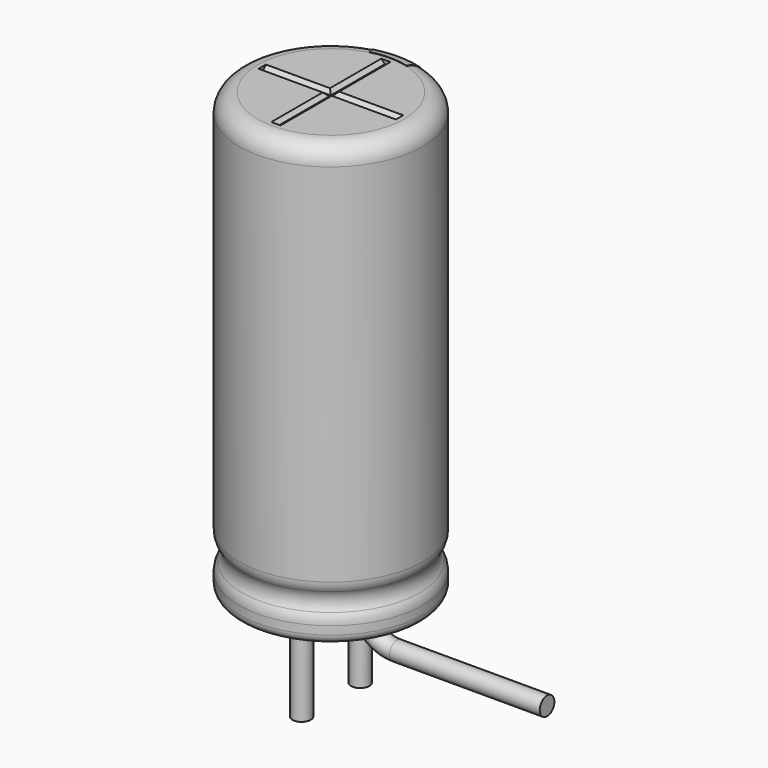
from build123d import *

# Parameters (mm, degrees)
SKETCH003_R         = 0.25
REVOLUTION001_ANGLE = -30
SKETCH015_W         = 0.5
SKETCH015_H         = 1
POCKET002_DEPTH     = 2.511
LINEARPATTERN_COUNT = 3
LINEARPATTERN_PITCH = 4.5
SKETCH010_R         = 0.25
PAD002_DEPTH        = 2.6
SKETCH013_R         = 2
PAD_DEPTH           = 0.5
POCKET001_DEPTH     = 1.875
POLARPATTERN_COUNT  = 3
POLARPATTERN_ANGLE  = 180
SKETCH012_R         = 2
POCKET_DEPTH        = 0.5


with BuildPart() as obj1:
    # AdditivePipe: sweep along a path in Sketch004
    with BuildLine(Plane.XZ) as additivepipe_path:
        Line((0, 0), (0, -0.5))
        ThreePointArc((0, -0.5), (0.292893, -1.207107), (1, -1.5))
        Line((1, -1.5), (5.1, -1.5))
    # Sketch003 (on ShapeBinder) → AdditivePipe (sweep)
    with BuildSketch(Plane(origin=(0, 0, 0), x_dir=(1, 0, 0), z_dir=(0, 0, -1))):
        with Locations((0, 1)):
            Circle(SKETCH003_R)
    sweep(path=additivepipe_path.line)


with BuildPart() as obj1_1:
    # Body003 placement: moved
    add(obj1.part.moved(Location((0, 2, 0))))


with BuildPart() as polaritymarking:
    # Sketch005 → Revolution001 (revolve)
    with BuildSketch(Plane(origin=(0, 0, 0), x_dir=(-0.258819, 0.965926, 0), z_dir=(0.965926, 0.258819, 0))):
        with BuildLine():
            Line((2.01, 0.25), (2.01, 12.01))
            ThreePointArc((2.01, 12.01), (2.363553, 11.863553), (2.51, 11.51))
            Line((2.51, 11.51), (2.51, 1.523941))
            ThreePointArc((2.51, 1.523941), (2.489134, 1.381006), (2.428278, 1.25))
            ThreePointArc((2.428278, 1.25), (2.353698, 1), (2.428278, 0.75))
            ThreePointArc((2.428278, 0.75), (2.489134, 0.618994), (2.51, 0.476059))
            Line((2.51, 0.476059), (2.51, 0.25))
            ThreePointArc((2.51, 0.25), (2.26, 0), (2.01, 0.25))
        make_face()
    revolve(axis=Axis((0, 0, 0), (0, 0, 1)), revolution_arc=REVOLUTION001_ANGLE)

    # Sketch015 → Pocket002 (cut, through all)
    with BuildSketch(Plane.XZ):
        with Locations((0, 2)):
            Rectangle(SKETCH015_W, SKETCH015_H)
    pocket002 = extrude(amount=-POCKET002_DEPTH, mode=Mode.SUBTRACT)

    # LinearPattern: Pocket002 ×3
    with Locations(*[(0, 0, i * LINEARPATTERN_PITCH) for i in range(1, LINEARPATTERN_COUNT)]):
        add(pocket002, mode=Mode.SUBTRACT)


with BuildPart() as obj2:
    # Sketch010 → Pad002 (new body)
    with BuildSketch(Plane(origin=(0, 1, 0), x_dir=(1, 0, 0), z_dir=(0, 0, 1))):
        Circle(SKETCH010_R)
    extrude(amount=-PAD002_DEPTH)


with BuildPart() as obj3:
    # Body007 base: copy of obj2
    add(obj2.part)


with BuildPart() as obj3_1:
    # Body007 placement: moved
    add(obj3.part.moved(Location((0, -2, 0))))


with BuildPart() as housingtop:
    # Sketch013 (on ShapeBinder) → Pad (new body)
    with BuildSketch(Plane.XY.offset(11.5)):
        Circle(SKETCH013_R)
    extrude(amount=PAD_DEPTH)

    # Sketch014 → Pocket001 (cut, symmetric)
    with BuildSketch(Plane.XZ):
        Polygon((-0.125, 12), (0.125, 12), (0.025, 11.9), (-0.025, 11.9), align=None)
    pocket001 = extrude(amount=POCKET001_DEPTH, both=True, mode=Mode.SUBTRACT)

    # PolarPattern: Pocket001 ×3 about axis
    polarpattern_axis = Axis((0, 0, 0), (0, 0, 1))
    for i in range(1, POLARPATTERN_COUNT):
        add(pocket001.rotate(polarpattern_axis, i * POLARPATTERN_ANGLE / (POLARPATTERN_COUNT - 1)), mode=Mode.SUBTRACT)


with BuildPart() as fusion:
    # Sketch → Revolution (revolve)
    with BuildSketch(Plane.XZ):
        with BuildLine():
            Line((0, 12), (2, 12))
            ThreePointArc((2.5, 11.5), (2.353553, 11.853553), (2, 12))
            Line((2.5, 11.5), (2.5, 1.523941))
            ThreePointArc((2.418278, 1.25), (2.479134, 1.381006), (2.5, 1.523941))
            ThreePointArc((2.418278, 1.25), (2.343698, 1), (2.418278, 0.75))
            ThreePointArc((2.5, 0.476059), (2.479134, 0.618994), (2.418278, 0.75))
            Line((2.5, 0.476059), (2.5, 0.25))
            ThreePointArc((2.25, 0), (2.426777, 0.073223), (2.5, 0.25))
            Line((0, 0), (2.25, 0))
            Line((0, 12), (0, 0))
        make_face()
    revolve(axis=Axis((0, 0, 0), (0, 0, 1)))

    # Sketch012 → Pocket (cut)
    with BuildSketch(Plane.XY.offset(12)):
        Circle(SKETCH012_R)
    extrude(amount=-POCKET_DEPTH, mode=Mode.SUBTRACT)

    # Fusion: union PolarityMarking, obj2, obj3, HousingTop
    add(polaritymarking.part)
    add(obj2.part)
    add(obj3_1.part)
    add(housingtop.part)


solid = Compound([obj1_1.part, fusion.part])
